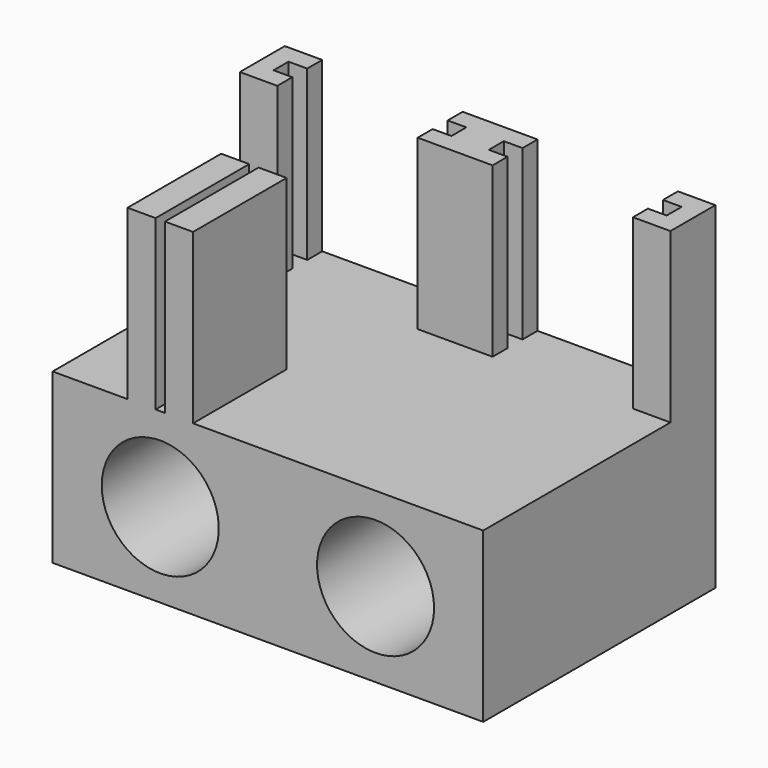
from build123d import *

# Parameters (mm, degrees)
F0_R     = 6.25
F0_W     = 4
F0_H     = 18
F1_DEPTH = 6
F3_W     = 2
F3_H     = 2
F2_W     = 2
F2_H     = 2
F4_DEPTH = 18
F5_R     = 6.25
F6_DEPTH = 25
F8_W     = 3
F8_H     = 12.5
F9_DEPTH = 18


with BuildPart() as f1:
    # F0 (on Front) → F1 (new body)
    with BuildSketch(Plane.XZ):
        Polygon((0, 18), (0, 0), (23, 0), (23, 18), (19, 18), (4, 18), align=None)
        with Locations((11.5, 9)):
            Circle(F0_R, mode=Mode.SUBTRACT)
        with Locations((2, 27)):
            Rectangle(F0_W, F0_H)
        with Locations((21, 27)):
            Rectangle(F0_W, F0_H)
    extrude(amount=F1_DEPTH)

    # F3 (on face) + F2 (on face) → F4 (cut)
    with BuildSketch(Plane.XY.offset(36)):
        with Locations((20, -3)):
            Rectangle(F3_W, F3_H)
    with BuildSketch(Plane.XY.offset(36)):
        with Locations((3, -3)):
            Rectangle(F2_W, F2_H)
    extrude(amount=-F4_DEPTH, mode=Mode.SUBTRACT)

    # F5 (on face) → F6 (join)
    with BuildSketch(Plane.XZ.offset(6)):
        Polygon((19, 18), (4, 18), (0, 18), (0, 0), (23, 0), (23, 18), align=None)
        with Locations((11.5, 9)):
            Circle(F5_R, mode=Mode.SUBTRACT)
    extrude(amount=F6_DEPTH)

    # F7: F1 across plane


with BuildPart() as f1_1:
    add(f1.part)
    add(f1.part.mirror(Plane.YZ))

    # F8 (on face) → F9 (join)
    with BuildSketch(Plane.XY.offset(18)):
        with Locations((-13.5, -24.75)):
            Rectangle(F8_W, F8_H)
        with Locations((-9.5, -24.75)):
            Rectangle(F8_W, F8_H)
    extrude(amount=F9_DEPTH)


solid = f1_1.part
